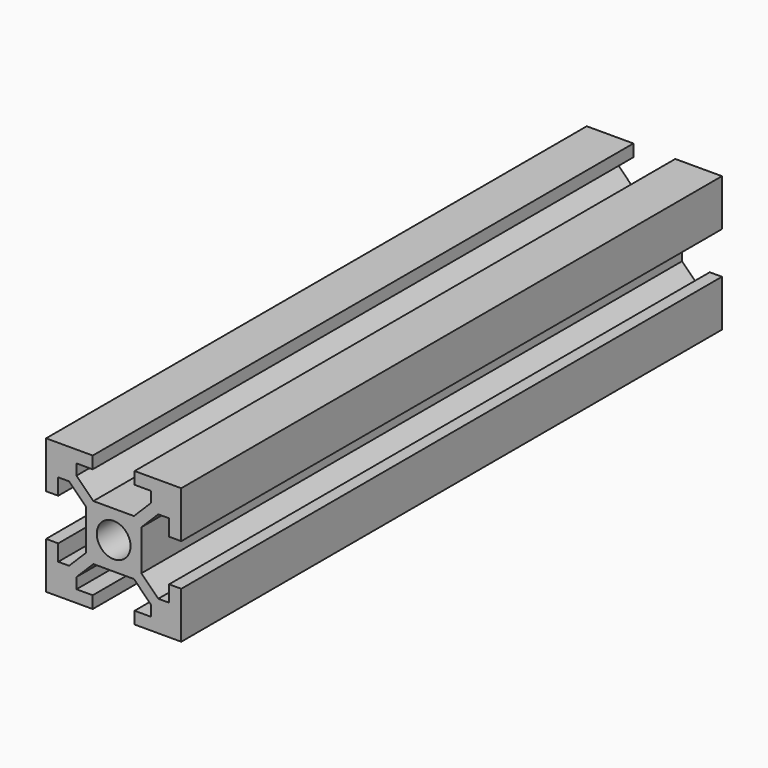
from build123d import *

# Parameters (mm, degrees)
F0_R     = 2.5
F1_DEPTH = 100


with BuildPart() as f1:
    # F0 (on Front) → F1 (new body)
    with BuildSketch(Plane.XZ):
        Polygon((-21.277554, 41.974986), (-28.177554, 41.974986), (-28.177554, 35.074986), (-26.377554, 35.074986), (-26.377554, 37.474986), (-24.777554, 37.474986), (-22.277554, 34.974986), (-22.277554, 28.974986), (-24.777554, 26.474986), (-26.377554, 26.474986), (-26.377554, 28.874986), (-28.177554, 28.874986), (-28.177554, 21.974986), (-21.277554, 21.974986), (-21.277554, 23.774986), (-23.677554, 23.774986), (-23.677554, 25.374986), (-21.177554, 27.874986), (-18.177554, 27.874986), (-15.177554, 27.874986), (-12.677554, 25.374986), (-12.677554, 23.774986), (-15.077554, 23.774986), (-15.077554, 21.974986), (-8.177554, 21.974986), (-8.177554, 28.874986), (-9.977554, 28.874986), (-9.977554, 26.474986), (-11.577554, 26.474986), (-14.077554, 28.974986), (-14.077554, 34.974986), (-11.577554, 37.474986), (-9.977554, 37.474986), (-9.977554, 35.074986), (-8.177554, 35.074986), (-8.177554, 41.974986), (-15.077554, 41.974986), (-15.077554, 40.174986), (-12.677554, 40.174986), (-12.677554, 38.574986), (-15.177554, 36.074986), (-18.177554, 36.074986), (-21.177554, 36.074986), (-23.677554, 38.574986), (-23.677554, 40.174986), (-21.277554, 40.174986), align=None)
        with Locations((-18.177554, 31.974986)):
            Circle(F0_R, mode=Mode.SUBTRACT)
    extrude(amount=F1_DEPTH)


solid = f1.part
